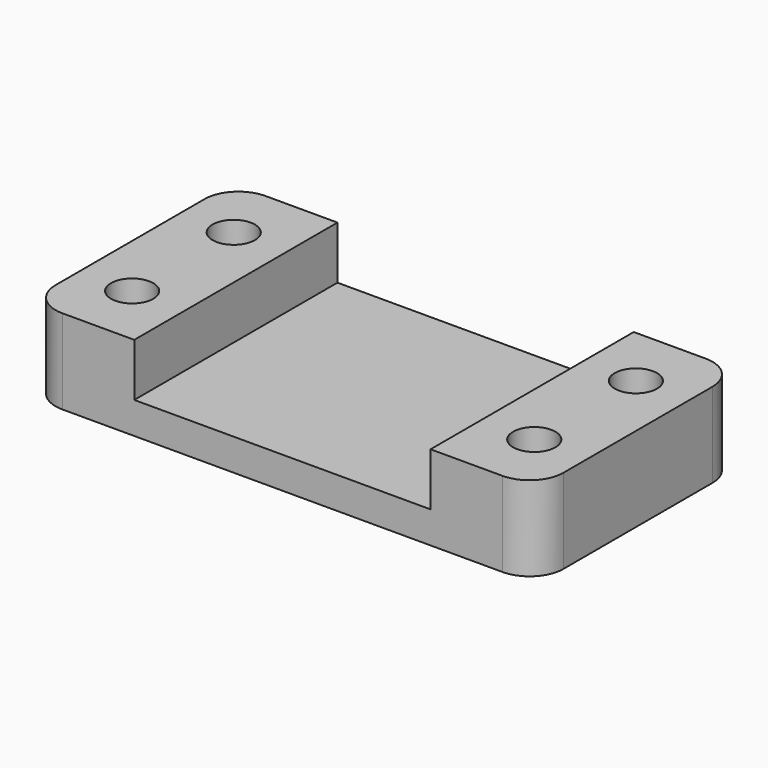
from build123d import *

# Parameters (mm, degrees)
F0_W     = 44.45
F0_H     = 4.7625
F1_DEPTH = 38.1
F3_D     = 6.35
F4_R     = 5.08


with BuildPart() as f1:
    # F0 (on Front) → F1 (new body)
    with BuildSketch(Plane.XZ):
        Polygon((-22.225, -2.38125), (-22.225, 2.38125), (-22.225, 10.31875), (-38.1, 10.31875), (-38.1, -2.38125), align=None)
        Rectangle(F0_W, F0_H)
        Polygon((22.225, 10.31875), (22.225, 2.38125), (22.225, -2.38125), (38.1, -2.38125), (38.1, 10.31875), align=None)
    extrude(amount=F1_DEPTH)

    # F3 (through all)
    with Locations(Plane.XY.offset(10.31875)):
        with Locations((-30.1625, -9.525), (-30.1625, -28.575), (30.1625, -9.525), (30.1625, -28.575)):
            Hole(F3_D / 2)

    # F4
    f4_edges = [f1.edges().sort_by_distance(p)[0] for p in [
        (38.1, 0, 3.96875),
        (38.1, -38.1, 3.96875),
        (-38.1, 0, 3.96875),
        (-38.1, -38.1, 3.96875),
    ]]
    fillet(f4_edges, radius=F4_R)


solid = f1.part
